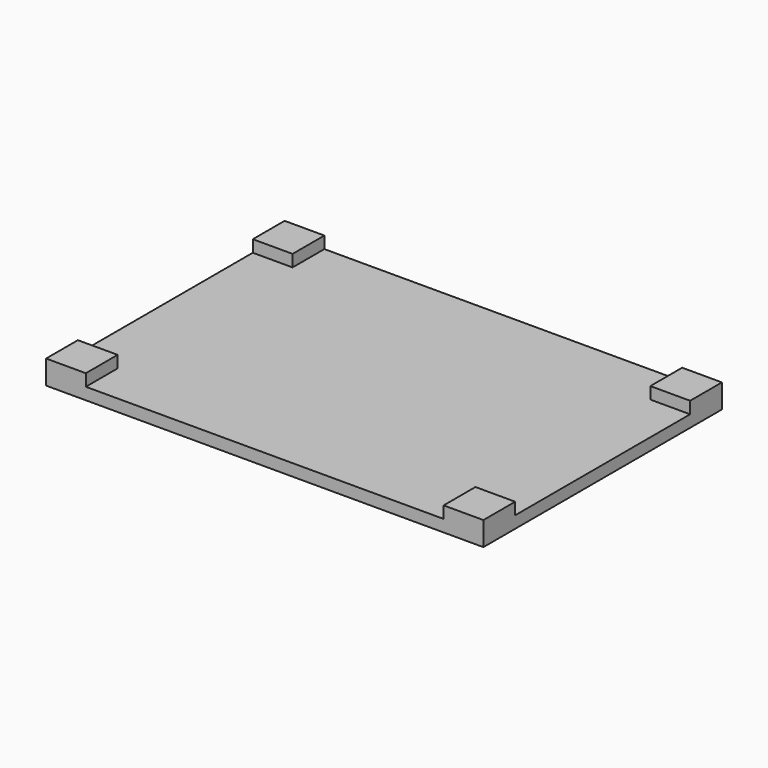
from build123d import *

# Parameters (mm, degrees)
BOX001_W     = 10
BOX001_H     = 10
BOX001_DEPTH = 6
BOX002_W     = 10
BOX002_H     = 10
BOX002_DEPTH = 6
BOX003_W     = 110
BOX003_H     = 75
BOX003_DEPTH = 3
BOX004_W     = 10
BOX004_H     = 10
BOX004_DEPTH = 6
BOX005_W     = 10
BOX005_H     = 10
BOX005_DEPTH = 6
BOX_W        = 110
BOX_H        = 75
BOX_DEPTH    = 3


with BuildPart() as cube001:
    # Box001 → Box001 (new body)
    with BuildSketch(Plane.XY):
        with Locations((5, 5)):
            Rectangle(BOX001_W, BOX001_H)
    extrude(amount=BOX001_DEPTH)


with BuildPart() as cube002:
    # Box002 → Box002 (new body)
    with BuildSketch(Plane(origin=(0, 65, 0), x_dir=(1, 0, 0), z_dir=(0, 0, 1))):
        with Locations((5, 5)):
            Rectangle(BOX002_W, BOX002_H)
    extrude(amount=BOX002_DEPTH)


with BuildPart() as cube003:
    # Box003 → Box003 (new body)
    with BuildSketch(Plane.XY):
        with Locations((55, 37.5)):
            Rectangle(BOX003_W, BOX003_H)
    extrude(amount=BOX003_DEPTH)


with BuildPart() as cube004:
    # Box004 → Box004 (new body)
    with BuildSketch(Plane(origin=(100, 65, 0), x_dir=(1, 0, 0), z_dir=(0, 0, 1))):
        with Locations((5, 5)):
            Rectangle(BOX004_W, BOX004_H)
    extrude(amount=BOX004_DEPTH)


with BuildPart() as cube005:
    # Box005 → Box005 (new body)
    with BuildSketch(Plane(origin=(100, 0, 0), x_dir=(1, 0, 0), z_dir=(0, 0, 1))):
        with Locations((5, 5)):
            Rectangle(BOX005_W, BOX005_H)
    extrude(amount=BOX005_DEPTH)


with BuildPart() as fusion:
    # Box → Box (new body)
    with BuildSketch(Plane.XY):
        with Locations((55, 37.5)):
            Rectangle(BOX_W, BOX_H)
    extrude(amount=BOX_DEPTH)

    # Fusion: union Cube001, Cube002, Cube003, Cube004, Cube005
    add(cube001.part)
    add(cube002.part)
    add(cube003.part)
    add(cube004.part)
    add(cube005.part)


solid = fusion.part
